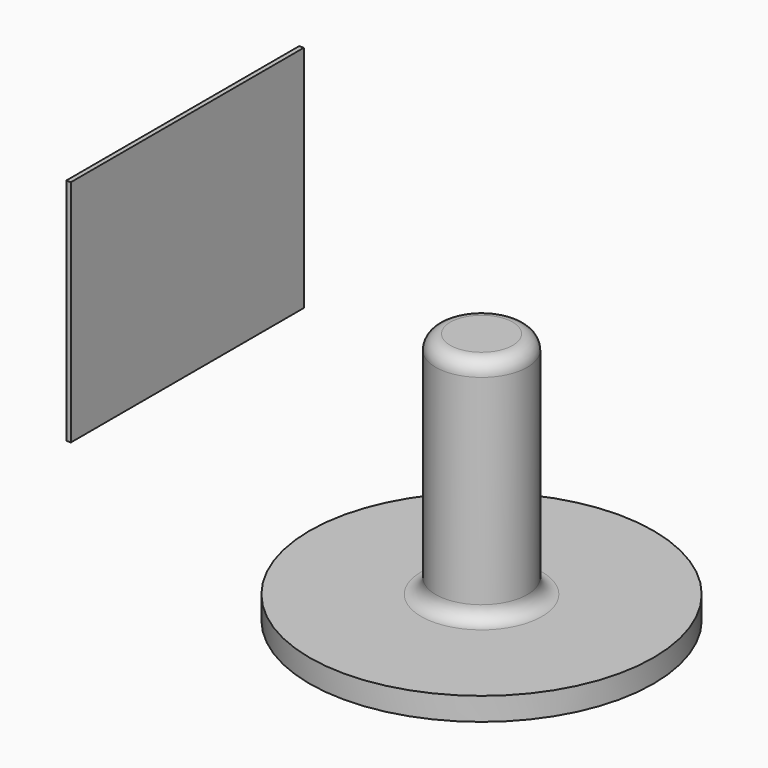
from build123d import *

# Parameters (mm, degrees)
F0_W     = 4
F0_H     = 20
F2_R     = 1.27
F3_W     = 0.4
F3_H     = 25.4
F4_DEPTH = 19.9898


with BuildPart() as f1:
    # F0 (on Front) → F1 (revolve)
    with BuildSketch(Plane.XZ):
        Polygon((0, -2), (0, 0), (-4, 0), (-15, 0), (-15, -2), align=None)
        with Locations((-2, 10)):
            Rectangle(F0_W, F0_H)
    revolve(axis=Axis((0, 0, 10), (0, 0, 1)))

    # F2
    f2_edges = [f1.edges().sort_by_distance(p)[0] for p in [
        (4, 0, 20),
        (4, 0, 0),
    ]]
    fillet(f2_edges, radius=F2_R)


with BuildPart() as f4:
    # F3 (on Top) → F4 (new body)
    with BuildSketch(Plane.XY):
        with Locations((-36.029795, 12.7)):
            Rectangle(F3_W, F3_H)
    extrude(amount=F4_DEPTH)


solid = Compound([f1.part, f4.part])
